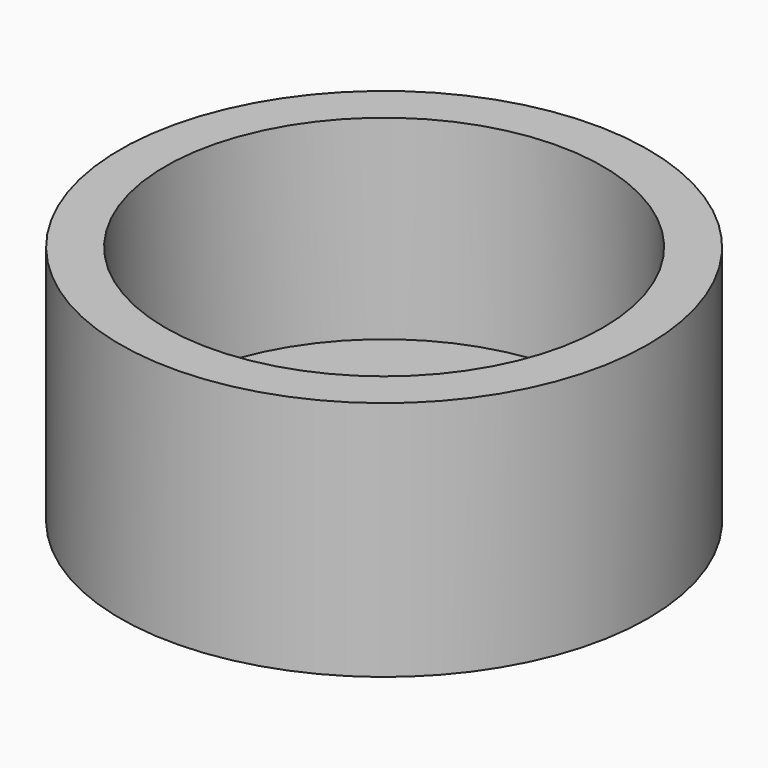
from build123d import *

# Parameters (mm, degrees)
F0_W     = 61.2
F0_H     = 55.9
F2_R     = 50.7
F3_DEPTH = 45.212


with BuildPart() as f1:
    # F0 (on Front) → F1 (revolve)
    with BuildSketch(Plane.XZ):
        with Locations((30.6, 27.95)):
            Rectangle(F0_W, F0_H)
    revolve(axis=Axis((0, 0, 44.715325), (0, 0, 1)))

    # F2 (on face) → F3 (cut)
    with BuildSketch(Plane.XY.offset(55.9)):
        Circle(F2_R)
    extrude(amount=-F3_DEPTH, mode=Mode.SUBTRACT)


solid = f1.part
